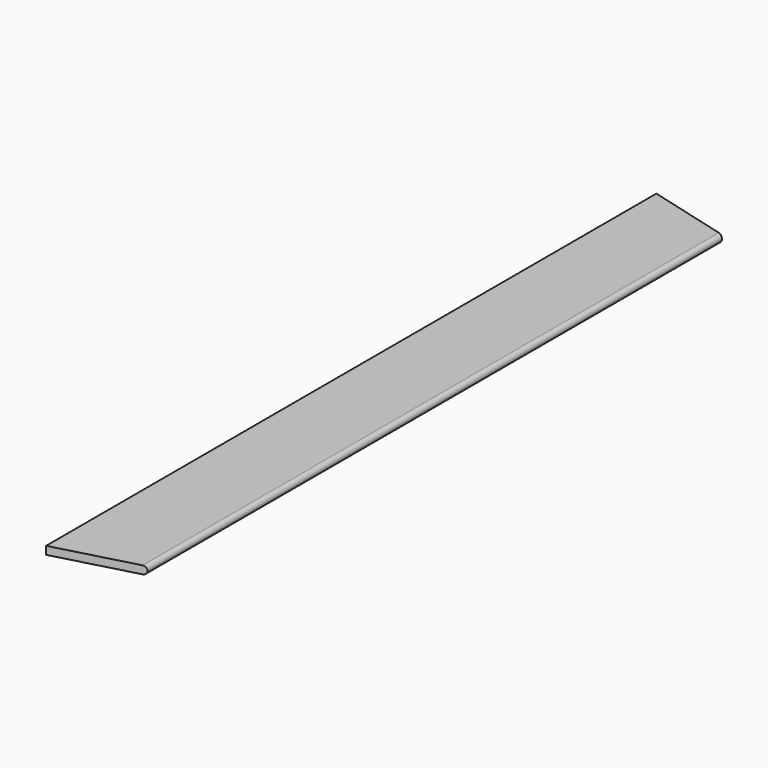
from build123d import *

# Parameters (mm, degrees)
F1_DEPTH = 2400
F3_DEPTH = 25.001


with BuildPart() as f1:
    # F0 (on Front) → F1 (new body)
    with BuildSketch(Plane.XZ):
        with BuildLine():
            Line((0, 25), (0, 0))
            Line((0, 0), (250, 0))
            ThreePointArc((250, 0), (262.5, 12.5), (250, 25))
            Line((250, 25), (0, 25))
        make_face()
    extrude(amount=F1_DEPTH)

    # F2 (on face) → F3 (cut, through all)
    with BuildSketch(Plane.XY.offset(25)):
        Polygon((262.5, -2400), (262.5, -2329.6633369868), (250, -2333.0127018922), (250, -2400), align=None)
        Polygon((250, -2400), (250, -2333.0127018922), (0, -2400), align=None)
        Polygon((250, -66.9872981078), (250, 0), (0, 0), align=None)
        Polygon((262.5, -70.3366630132), (262.5, 0), (250, 0), (250, -66.9872981078), align=None)
    extrude(amount=-F3_DEPTH, mode=Mode.SUBTRACT)


solid = f1.part
